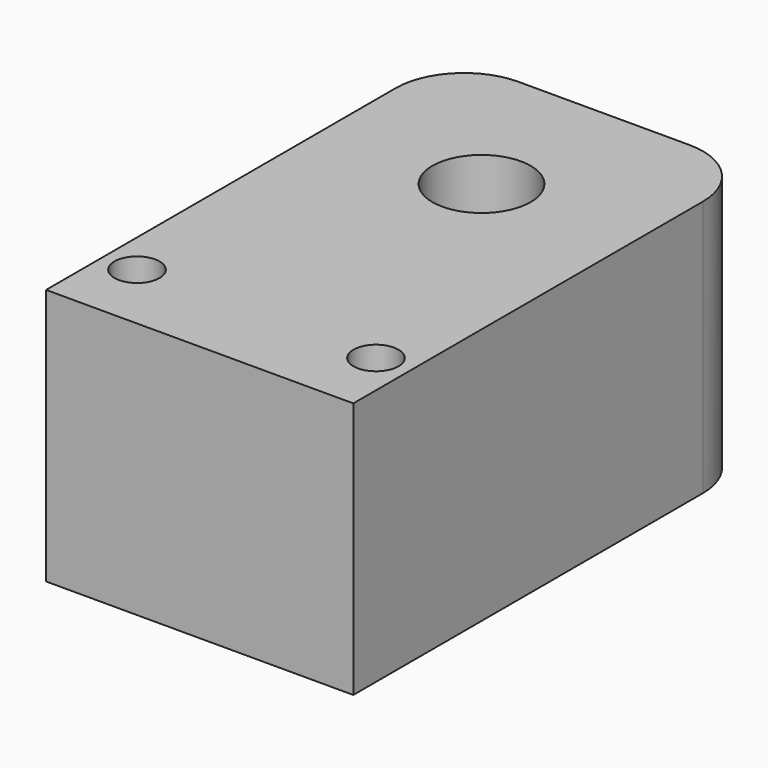
from build123d import *

# Parameters (mm, degrees)
F0_W     = 22.5
F0_H     = 37
F1_DEPTH = 18.8
F2_R     = 5
F4_D     = 3.3
F6_D     = 7.2


with BuildPart() as f1:
    # F0 (on Top) → F1 (new body)
    with BuildSketch(Plane.XY):
        Rectangle(F0_W, F0_H)
    extrude(amount=F1_DEPTH)

    # F2
    f2_edges = [f1.edges().sort_by_distance(p)[0] for p in [
        (11.25, 18.5, 9.4),
        (-11.25, 18.5, 9.4),
    ]]
    fillet(f2_edges, radius=F2_R)

    # F4 (through all)
    with Locations(Plane.XY.offset(18.8)):
        with Locations((-8.75, -13.3), (8.75, -13.3)):
            Hole(F4_D / 2)

    # F6 (through all)
    with Locations(Plane.XY.offset(18.8)):
        with Locations((0, 7.3)):
            Hole(F6_D / 2)


solid = f1.part
